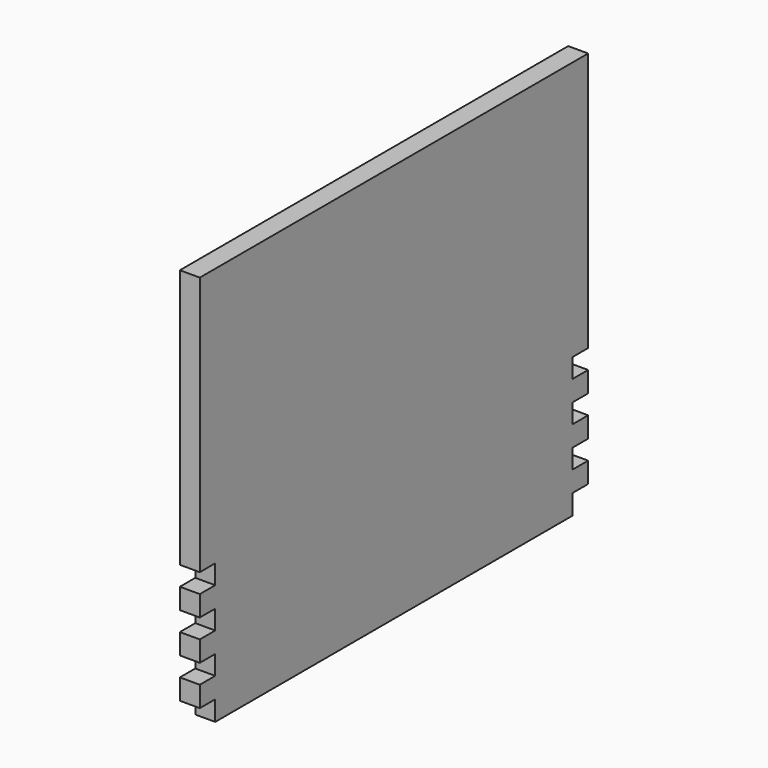
from build123d import *

# Parameters (mm, degrees)
F1_DEPTH = 6


with BuildPart() as f1:
    # F0 (on Right) → F1 (new body)
    with BuildSketch(Plane.YZ):
        Polygon((-67.2, -60), (67.2, -60), (67.2, -54), (73, -54), (73, -47.8), (67.2, -47.8), (67.2, -42), (73, -42), (73, -35.8), (67.2, -35.8), (67.2, -30), (73, -30), (73, -23.8), (67.2, -23.8), (67.2, -18), (73, -18), (73, 60), (-73, 60), (-73, -18), (-67.2, -18), (-67.2, -23.8), (-73, -23.8), (-73, -30), (-67.2, -30), (-67.2, -35.8), (-73, -35.8), (-73, -42), (-67.2, -42), (-67.2, -47.8), (-73, -47.8), (-73, -54), (-67.2, -54), align=None)
    extrude(amount=F1_DEPTH)


solid = f1.part
